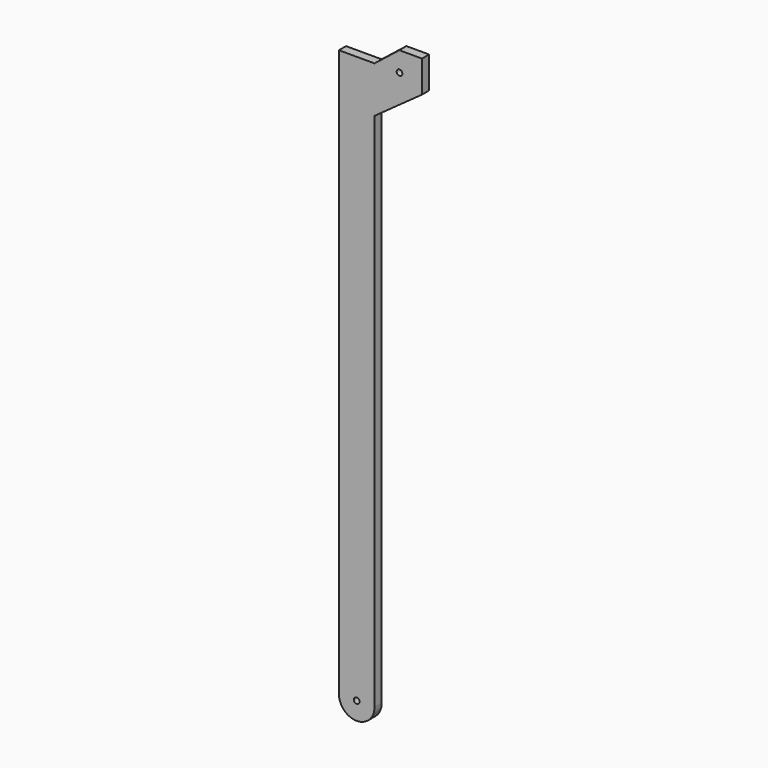
from build123d import *

# Parameters (mm, degrees)
F0_R     = 8
F1_DEPTH = 25


with BuildPart() as f1:
    # F0 (on Front) → F1 (new body)
    with BuildSketch(Plane.XZ):
        with BuildLine():
            ThreePointArc((-100, 0), (-50, 50), (0, 0))
            Line((0, 0), (0, 1460.550666))
            Line((0, 1460.550666), (0, 1590))
            Line((0, 1590), (-100, 1590))
            Line((-100, 1590), (-100, 0))
        make_face()
        Polygon((0, 1590), (0, 1460.550666), (133.017421, 1556.025267), (133.017421, 1645.134807), (69.367714, 1645.134807), align=None)
        with Locations((70, 1590)):
            Circle(F0_R, mode=Mode.SUBTRACT)
        with BuildLine():
            Line((-42, 0), (0, 0))
            ThreePointArc((0, 0), (-50, 50), (-100, 0))
            Line((-100, 0), (-58, 0))
            ThreePointArc((-58, 0), (-50, 8), (-42, 0))
        make_face()
        with BuildLine():
            ThreePointArc((-100, 0), (-50, -50), (0, 0))
            Line((0, 0), (-42, 0))
            ThreePointArc((-42, 0), (-50, -8), (-58, 0))
            Line((-58, 0), (-100, 0))
        make_face()
    extrude(amount=F1_DEPTH)


solid = f1.part
